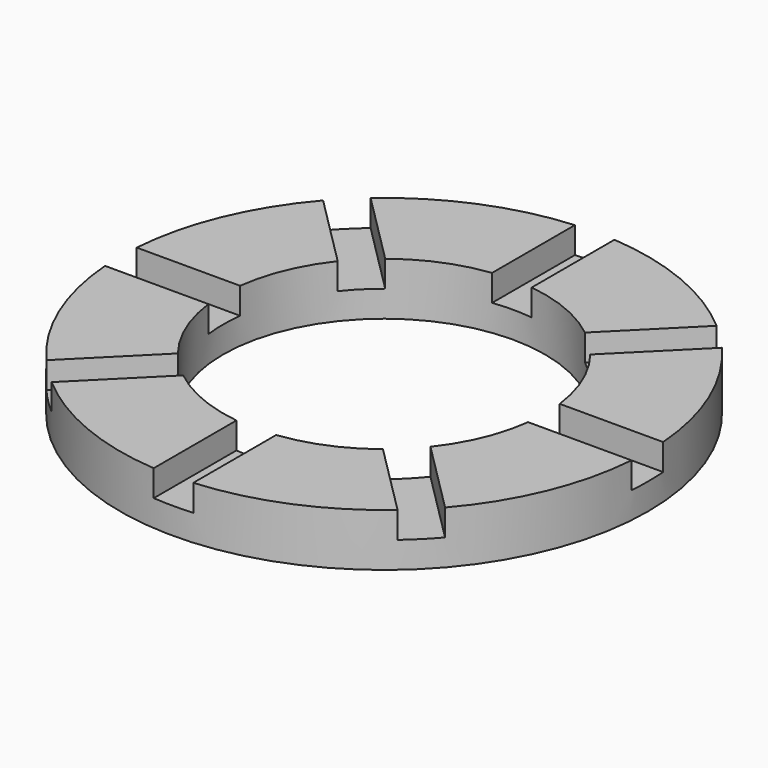
from build123d import *

# Parameters (mm, degrees)
F0_R     = 12.7
F0_R_2   = 7.747
F1_DEPTH = 2.54
F3_DEPTH = 1.27
F4_W     = 1.905
F4_H     = 11.7475
F4_W_2   = 11.7475
F4_H_2   = 1.905
F5_DEPTH = 1.27


with BuildPart() as f1:
    # F0 (on Top) → F1 (new body)
    with BuildSketch(Plane.XY):
        Circle(F0_R)
        Circle(F0_R_2, mode=Mode.SUBTRACT)
    extrude(amount=F1_DEPTH)

    # F2 (on face) → F3 (cut)
    with BuildSketch(Plane.XY.offset(2.54)):
        Polygon((0, 1.27), (0, 0), (6.35, 6.35), (9.698677, 9.698677), (8.428677, 9.698677), align=None)
        Polygon((-1.27, 0), (0, 0), (-6.35, 6.35), (-9.698677, 9.698677), (-9.698677, 8.428677), align=None)
        Polygon((1.27, 0), (0, 0), (6.35, -6.35), (9.698677, -9.698677), (9.698677, -8.428677), align=None)
        Polygon((0, -1.27), (0, 0), (-6.35, -6.35), (-9.698677, -9.698677), (-8.428677, -9.698677), align=None)
        Polygon((6.35, 6.35), (0, 0), (1.27, 0), (9.698677, 8.428677), (9.698677, 9.698677), align=None)
        Polygon((-6.35, 6.35), (0, 0), (0, 1.27), (-8.428677, 9.698677), (-9.698677, 9.698677), align=None)
        Polygon((6.35, -6.35), (0, 0), (0, -1.27), (8.428677, -9.698677), (9.698677, -9.698677), align=None)
        Polygon((-6.35, -6.35), (0, 0), (-1.27, 0), (-9.698677, -8.428677), (-9.698677, -9.698677), align=None)
    extrude(amount=-F3_DEPTH, mode=Mode.SUBTRACT)

    # F4 (on face) → F5 (cut)
    with BuildSketch(Plane.XY.offset(2.54)):
        with Locations((0, -6.82625)):
            Rectangle(F4_W, F4_H)
        with Locations((6.82625, 0)):
            Rectangle(F4_W_2, F4_H_2)
        with Locations((-6.82625, 0)):
            Rectangle(F4_W_2, F4_H_2)
        with Locations((0, 6.82625)):
            Rectangle(F4_W, F4_H)
    extrude(amount=-F5_DEPTH, mode=Mode.SUBTRACT)


solid = f1.part
